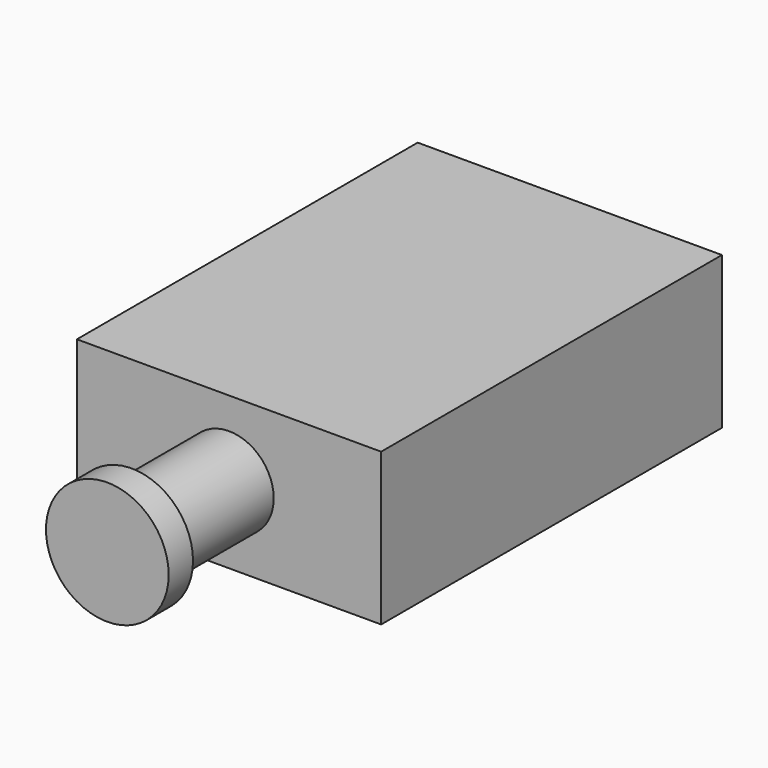
from build123d import *

# Parameters (mm, degrees)
F0_W     = 50
F0_H     = 25
F1_DEPTH = 70
F2_R     = 7.3447038538
F3_DEPTH = 20
F4_R     = 10.0823873926
F4_R_2   = 7.3447038538
F5_DEPTH = 5


with BuildPart() as f1:
    # F0 (on Front) → F1 (new body)
    with BuildSketch(Plane.XZ):
        Rectangle(F0_W, F0_H)
    extrude(amount=-F1_DEPTH)

    # F2 (on Front) → F3 (join)
    with BuildSketch(Plane.XZ):
        Circle(F2_R)
    extrude(amount=F3_DEPTH)

    # F4 (on face) → F5 (join)
    with BuildSketch(Plane.XZ.offset(20)):
        Circle(F4_R)
        Circle(F4_R_2, mode=Mode.SUBTRACT)
        Circle(F4_R_2)
    extrude(amount=F5_DEPTH)


solid = f1.part
